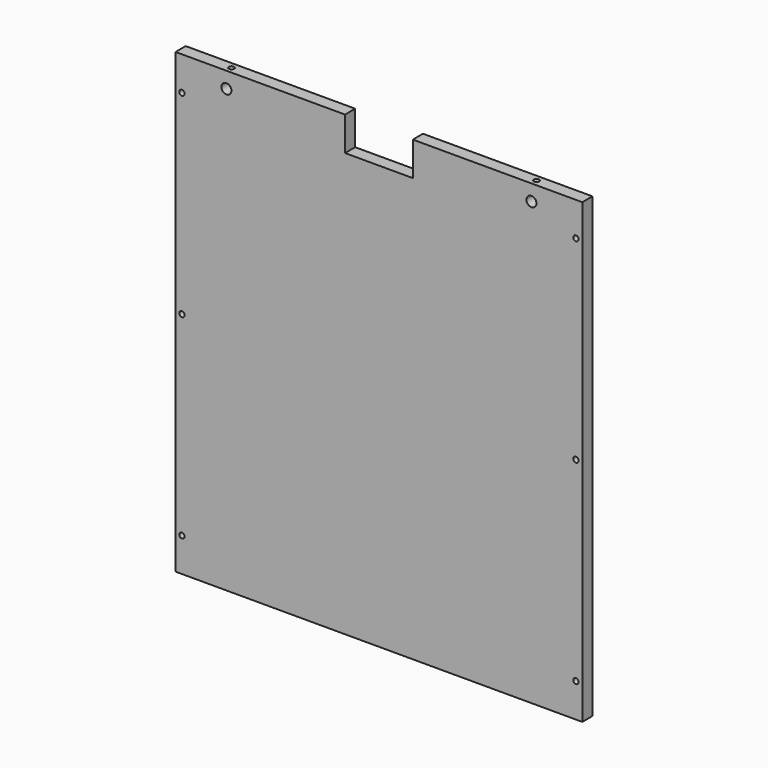
from build123d import *

# Parameters (mm, degrees)
F1_DEPTH       = 19.05
F3_D           = 15.0114
F3_DEPTH       = 14.224
F3_TIP         = 4.5098795482
F6_D           = 8.001
F6_DEPTH       = 25.4
F6_TIP         = 2.4037429064
F6_ON_F5_D     = 8.001
F6_ON_F5_DEPTH = 25.4
F6_ON_F5_TIP   = 2.4037429064
F8_D           = 8.001
F8_DEPTH       = 14.224
F8_TIP         = 2.4037429064
F10_D          = 8.001
F10_DEPTH      = 41.275
F10_TIP        = 2.4037429064


with BuildPart() as f1:
    # F0 (on Front) → F1 (new body)
    with BuildSketch(Plane.XZ):
        Polygon((-304.8, -342.9), (304.8, -342.9), (304.8, 342.9), (50.8, 342.9), (50.8, 292.1), (-50.8, 292.1), (-50.8, 342.9), (-304.8, 342.9), align=None)
    extrude(amount=F1_DEPTH)

    # F3
    with Locations(Plane.XZ.offset(19.05)):
        with Locations((-228.6, 319.024), (228.6, 319.024)):
            Hole(F3_D / 2, depth=F3_DEPTH)
            with Locations((0, 0, -(F3_DEPTH + F3_TIP / 2))):  # 118° drill point
                Cone(0, F3_D / 2, F3_TIP, mode=Mode.SUBTRACT)

    # F6
    with Locations(Plane.XY.offset(342.9)):
        with Locations((-228.6, -9.525)):
            Hole(F6_D / 2, depth=F6_DEPTH)
            with Locations((0, 0, -(F6_DEPTH + F6_TIP / 2))):  # 118° drill point
                Cone(0, F6_D / 2, F6_TIP, mode=Mode.SUBTRACT)

    # F6 on F5
    with Locations(Plane.XY.offset(342.9)):
        with Locations((228.6, -9.525)):
            Hole(F6_ON_F5_D / 2, depth=F6_ON_F5_DEPTH)
            with Locations((0, 0, -(F6_ON_F5_DEPTH + F6_ON_F5_TIP / 2))):  # 118° drill point
                Cone(0, F6_ON_F5_D / 2, F6_ON_F5_TIP, mode=Mode.SUBTRACT)

    # F8
    with Locations(Plane.XZ.offset(19.05)):
        with Locations((-295.275, 292.1), (-295.275, 0), (-295.275, -292.1), (295.275, -292.1), (295.275, 0), (295.275, 292.1)):
            Hole(F8_D / 2, depth=F8_DEPTH)
            with Locations((0, 0, -(F8_DEPTH + F8_TIP / 2))):  # 118° drill point
                Cone(0, F8_D / 2, F8_TIP, mode=Mode.SUBTRACT)

    # F10
    with Locations(Plane(origin=(0, 0, -342.9), x_dir=(1, 0, 0), z_dir=(0, 0, -1))):
        with Locations((-241.3, 9.525), (241.3, 9.525)):
            Hole(F10_D / 2, depth=F10_DEPTH)
            with Locations((0, 0, -(F10_DEPTH + F10_TIP / 2))):  # 118° drill point
                Cone(0, F10_D / 2, F10_TIP, mode=Mode.SUBTRACT)


solid = f1.part
